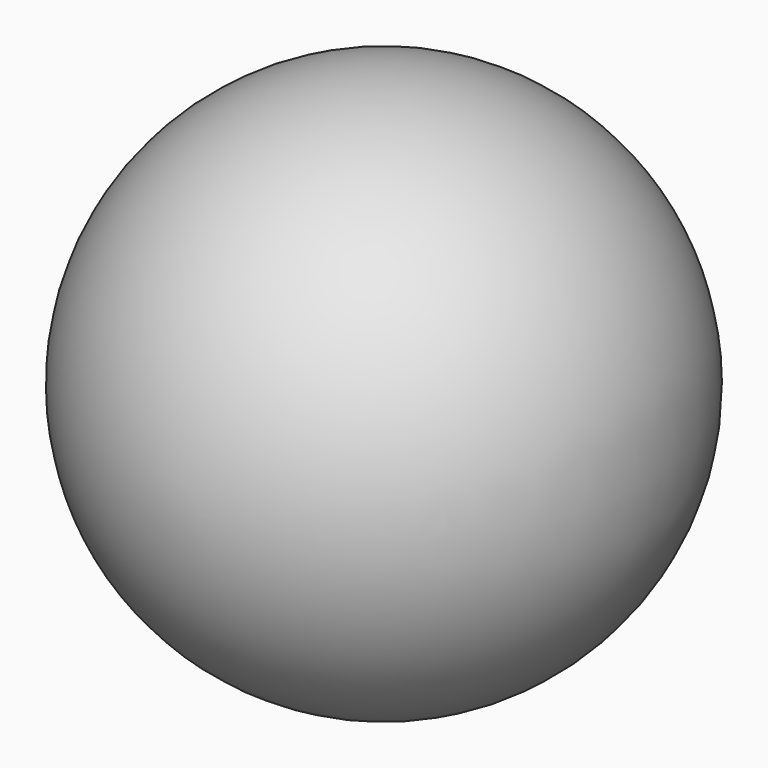
from build123d import *

# Parameters (mm, degrees)
F0_W = 63.5
F0_H = 127


with BuildPart() as f1:
    # F0 (on Top) → F1 (revolve)
    with BuildSketch(Plane.XY):
        with Locations((-31.75, 0)):
            Rectangle(F0_W, F0_H)
    revolve(axis=Axis((0, 0, 0), (0, -1, 0)))

    # F2 (on Top) → F3 (revolve, intersect)
    with BuildSketch(Plane.XY):
        with BuildLine():
            ThreePointArc((0, -63.5), (63.5, 0), (0, 63.5))
            Line((0, 63.5), (0, -63.5))
        make_face()
    revolve(axis=Axis((0, 0, 0), (0, 1, 0)), mode=Mode.INTERSECT)


solid = f1.part
